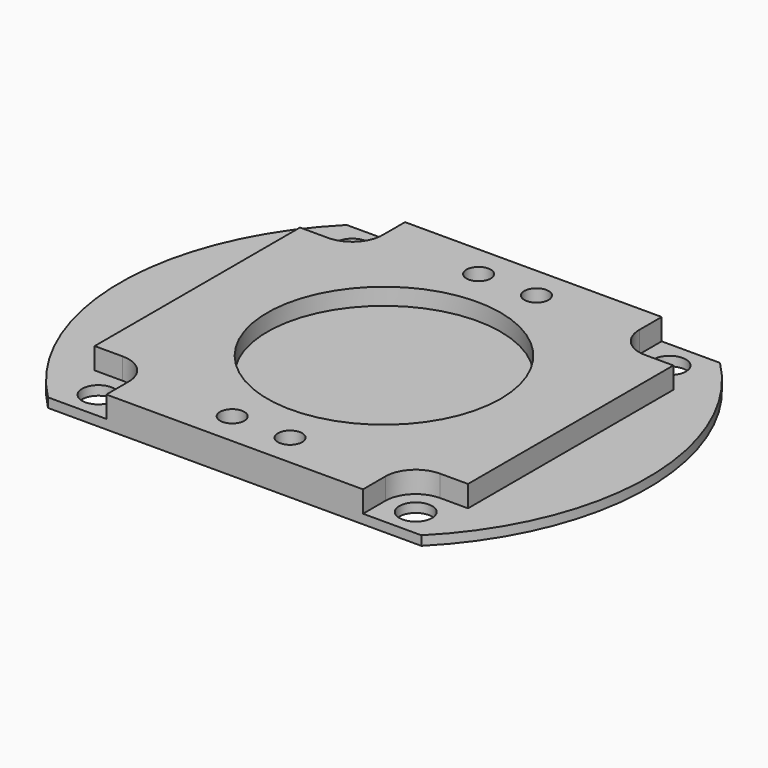
from build123d import *

# Parameters (mm, degrees)
F0_R     = 12.5
F1_DEPTH = 3.3
F2_DEPTH = 1.5
F3_DEPTH = 1
F4_D     = 3.5
F5_D     = 2.6


with BuildPart() as f1:
    # F0 (on Top) → F1 (new body)
    with BuildSketch(Plane.XY):
        with BuildLine():
            Line((-13.75, -20), (13.75, -20))
            Line((13.75, -20), (13.75, -17))
            ThreePointArc((13.75, -17), (14.701903, -14.701903), (17, -13.75))
            Line((17, -13.75), (20, -13.75))
            Line((20, -13.75), (20, 13.75))
            Line((20, 13.75), (17, 13.75))
            ThreePointArc((17, 13.75), (14.701903, 14.701903), (13.75, 17))
            Line((13.75, 17), (13.75, 20))
            Line((13.75, 20), (-13.75, 20))
            Line((-13.75, 20), (-13.75, 17))
            ThreePointArc((-13.75, 17), (-14.701903, 14.701903), (-17, 13.75))
            Line((-17, 13.75), (-20, 13.75))
            Line((-20, 13.75), (-20, -13.75))
            Line((-20, -13.75), (-17, -13.75))
            ThreePointArc((-17, -13.75), (-14.701903, -14.701903), (-13.75, -17))
            Line((-13.75, -17), (-13.75, -20))
        make_face()
        Circle(F0_R, mode=Mode.SUBTRACT)
    extrude(amount=F1_DEPTH)

    # F0 (on Top) → F2 (join)
    with BuildSketch(Plane.XY):
        Circle(F0_R)
    extrude(amount=F2_DEPTH)

    # F0 (on Top) → F3 (join)
    with BuildSketch(Plane.XY):
        with BuildLine():
            Line((20, -13.75), (20, -20))
            ThreePointArc((20, -20), (28.271859, 0), (20, 20))
            Line((20, 20), (20, 13.75))
            Line((20, 13.75), (20, -13.75))
        make_face()
        with BuildLine():
            Line((20, 13.75), (20, 20))
            Line((20, 20), (13.75, 20))
            Line((13.75, 20), (13.75, 17))
            ThreePointArc((13.75, 17), (14.701903, 14.701903), (17, 13.75))
            Line((17, 13.75), (20, 13.75))
        make_face()
        with BuildLine():
            Line((13.75, -20), (20, -20))
            Line((20, -20), (20, -13.75))
            Line((20, -13.75), (17, -13.75))
            ThreePointArc((17, -13.75), (14.701903, -14.701903), (13.75, -17))
            Line((13.75, -17), (13.75, -20))
        make_face()
        with BuildLine():
            Line((-13.75, 17), (-13.75, 20))
            Line((-13.75, 20), (-20, 20))
            Line((-20, 20), (-20, 13.75))
            Line((-20, 13.75), (-17, 13.75))
            ThreePointArc((-17, 13.75), (-14.701903, 14.701903), (-13.75, 17))
        make_face()
        with BuildLine():
            ThreePointArc((-20, 20), (-28.273493, 0), (-20, -20))
            Line((-20, -20), (-20, -13.75))
            Line((-20, -13.75), (-20, 13.75))
            Line((-20, 13.75), (-20, 20))
        make_face()
        with BuildLine():
            Line((-20, -20), (-13.75, -20))
            Line((-13.75, -20), (-13.75, -17))
            ThreePointArc((-13.75, -17), (-14.701903, -14.701903), (-17, -13.75))
            Line((-17, -13.75), (-20, -13.75))
            Line((-20, -13.75), (-20, -20))
        make_face()
    extrude(amount=F3_DEPTH)

    # F4 (through all)
    with Locations(Plane(origin=(0, 0, 0), x_dir=(1, 0, 0), z_dir=(0, 0, -1))):
        with Locations((17, 17), (-17, 17), (-17, -17), (17, -17)):
            Hole(F4_D / 2)

    # F5 (through all)
    with Locations(Plane(origin=(0, 0, 0), x_dir=(1, 0, 0), z_dir=(0, 0, -1))):
        with Locations((-3.063159, 16.5), (3.136841, 16.5), (3.136841, -16.5), (-3.063159, -16.5)):
            Hole(F5_D / 2)


solid = f1.part
